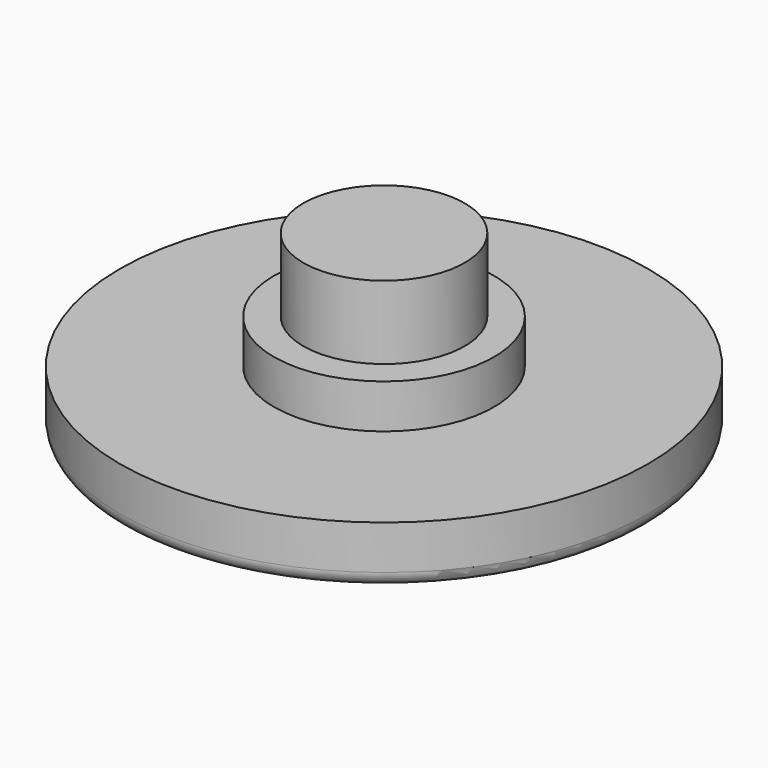
from build123d import *


with BuildPart() as f1:
    # F0 (on Front) → F1 (revolve)
    with BuildSketch(Plane.XZ):
        with BuildLine():
            Line((0, -2), (0, 4))
            Line((0, 4), (-2.75, 4))
            Line((-2.75, 4), (-2.75, 1.5))
            Line((-2.75, 1.5), (-3.75, 1.5))
            Line((-3.75, 1.5), (-3.75, 0))
            Line((-3.75, 0), (-9, 0))
            Line((-9, 0), (-9, -1.5))
            ThreePointArc((-9, -1.5), (-8.853553, -1.853553), (-8.5, -2))
            Line((-8.5, -2), (0, -2))
        make_face()
    revolve(axis=Axis((0, 0, 1), (0, 0, 1)))


solid = f1.part
